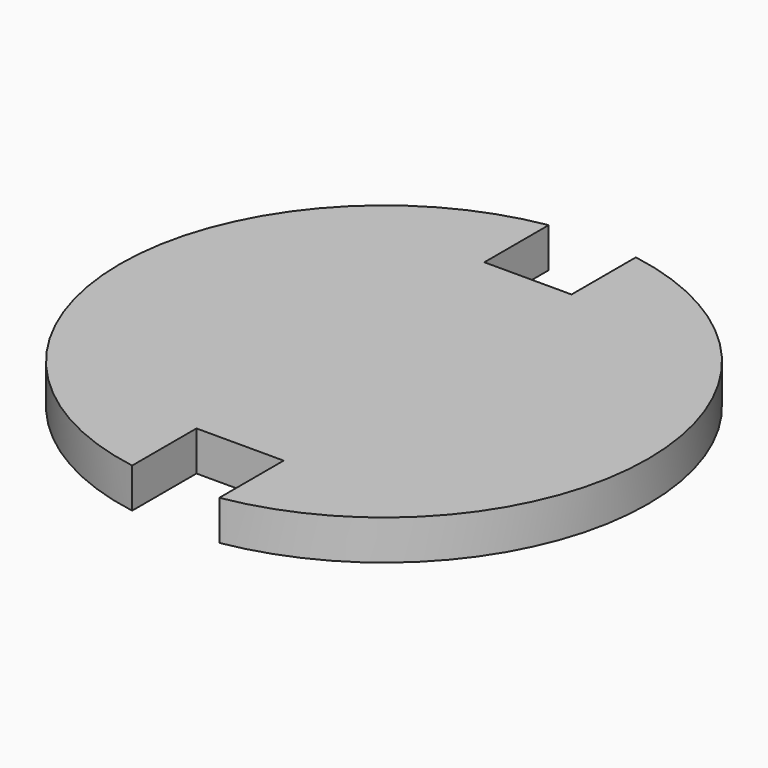
from build123d import *

# Parameters (mm, degrees)
SKETCH_R     = 27.25
PAD_DEPTH    = 4.1
SKETCH001_W  = 9
SKETCH001_H  = 9
POCKET_DEPTH = 5


with BuildPart() as part:
    # Sketch → Pad (new body)
    with BuildSketch(Plane.XY):
        Circle(SKETCH_R)
    extrude(amount=PAD_DEPTH)

    # Sketch001 (on DatumPlane) → Pocket (cut)
    with BuildSketch(Plane.XY.offset(4.1)):
        with Locations((0, 23.072699)):
            Rectangle(SKETCH001_W, SKETCH001_H)
    pocket = extrude(amount=-POCKET_DEPTH, mode=Mode.SUBTRACT)

    # Mirrored: Pocket across Sketch001 H_Axis
    add(pocket.mirror(Plane(origin=(0, 0, 4.1), x_dir=(0, 0, 1), z_dir=(0, 1, 0))), mode=Mode.SUBTRACT)


solid = part.part
